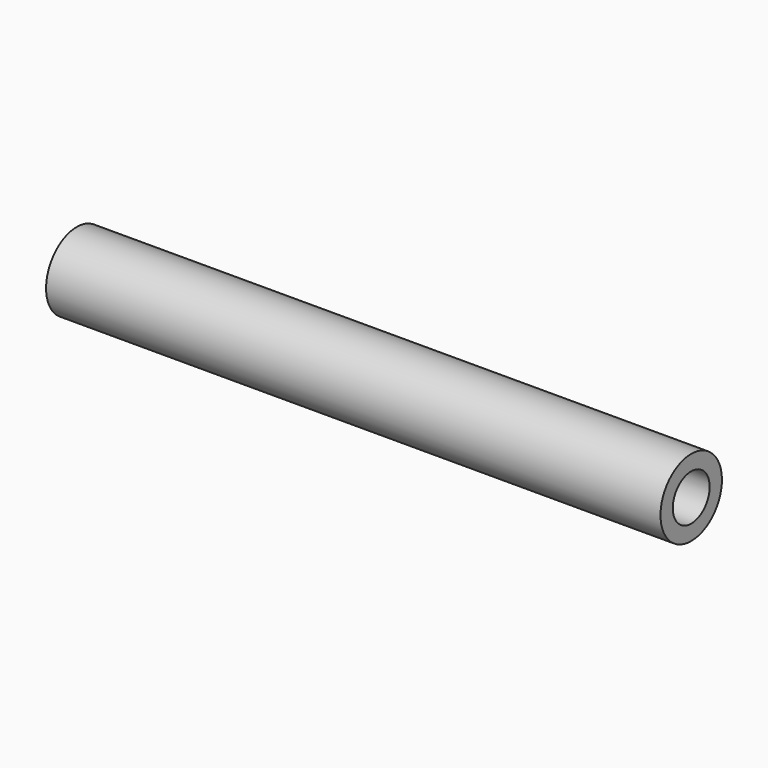
from build123d import *

# Parameters (mm, degrees)
CYLINDER005_R           = 1.5
CYLINDER005_DEPTH       = 44
CYLINDER005_PITCH_ANGLE = 90
CYLINDER004_R           = 2.5
CYLINDER004_DEPTH       = 40
CYLINDER004_PITCH_ANGLE = 90


with BuildPart() as cilindro005:
    # Cylinder005 → Cylinder005 (new body)
    with BuildSketch(Plane.XY):
        Circle(CYLINDER005_R)
    extrude(amount=CYLINDER005_DEPTH)


with BuildPart() as cilindro005_1:
    # Cylinder005 pitch: moved
    add(cilindro005.part.rotate(Axis((0, 0, 0), (0, 1, 0)), CYLINDER005_PITCH_ANGLE))


with BuildPart() as cilindro005_2:
    # Cylinder005 placement: moved
    add(cilindro005_1.part.moved(Location((-2, 0, 0))))


with BuildPart() as soporte3:
    # Cylinder004 → Cylinder004 (new body)
    with BuildSketch(Plane.XY):
        Circle(CYLINDER004_R)
    extrude(amount=CYLINDER004_DEPTH)


with BuildPart() as soporte3_1:
    # Cylinder004 pitch: moved
    add(soporte3.part.rotate(Axis((0, 0, 0), (0, 1, 0)), CYLINDER004_PITCH_ANGLE))


with BuildPart() as soporte3_2:
    # Cylinder004 placement: moved
    add(soporte3_1.part)

    # Cut002: cut Cilindro005
    add(cilindro005_2.part, mode=Mode.SUBTRACT)


with BuildPart() as soporte3_3:
    # Cut002 placement: moved
    add(soporte3_2.part.moved(Location((125, 65, 112.5))))


solid = soporte3_3.part
